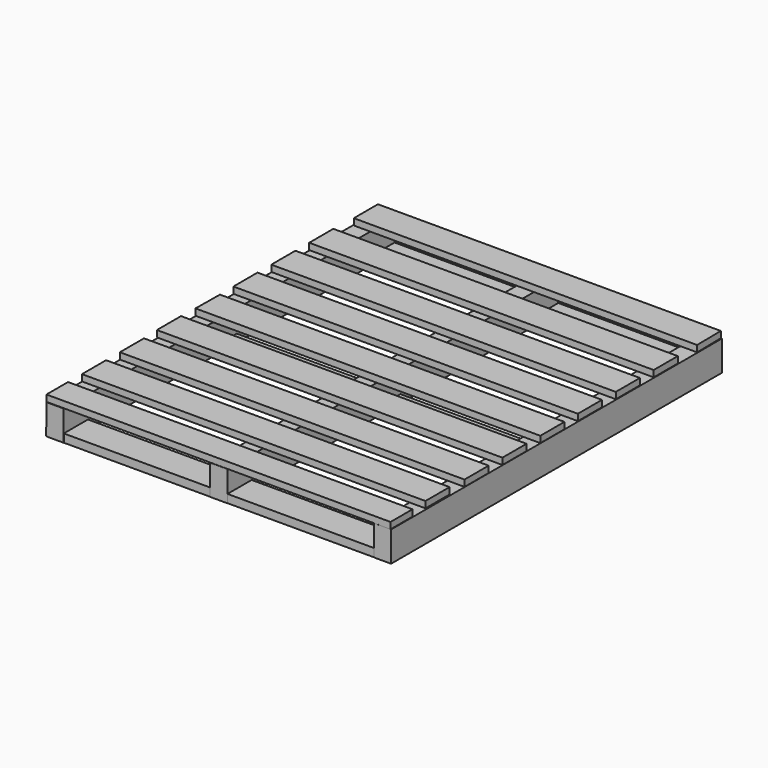
from build123d import *

# Parameters (mm, degrees)
F0_W     = 50.8
F0_H     = 1219.2
F1_DEPTH = 88.9
F2_W     = 1015.545875
F2_H     = 88.9
F2_W_2   = 1018.648714
F2_W_3   = 1016.00194
F2_W_4   = 1012.616396
F3_DEPTH = 19.05
F4_W     = 1015.545935
F4_H     = 88.9
F4_W_2   = 1017.929852
F5_DEPTH = 24.13


with BuildPart() as f1:
    # F0 (on Top) → F1 (new body)
    with BuildSketch(Plane.XY):
        with Locations((-384.217659, 363.047006)):
            Rectangle(F0_W, F0_H)
        with Locations((98.382341, 363.047006)):
            Rectangle(F0_W, F0_H)
        with Locations((580.982341, 363.047006)):
            Rectangle(F0_W, F0_H)
    extrude(amount=F1_DEPTH)


with BuildPart() as f3:
    # F2 (on face) → F3 (new body)
    with BuildSketch(Plane.XY.offset(88.9)):
        with Locations((96.78875, 767.893939)):
            Rectangle(F2_W, F2_H)
        with Locations((96.78875, 628.193939)):
            Rectangle(F2_W, F2_H)
        with Locations((96.78875, 488.493939)):
            Rectangle(F2_W, F2_H)
        Polygon((605.664253, 393.243939), (-409.914374, 393.243939), (-410.984188, 304.343939), (605.664253, 304.343939), align=None)
        with Locations((96.339896, 209.093939)):
            Rectangle(F2_W_2, F2_H)
        with Locations((97.663283, 69.393939)):
            Rectangle(F2_W_3, F2_H)
        with Locations((95.970511, -70.306061)):
            Rectangle(F2_W_4, F2_H)
        Polygon((-410.687506, -165.556061), (-410.687506, -245.086014), (604.76917, -246.552994), (604.76917, -165.556061), align=None)
        Polygon((604.528725, 883.23614), (604.76917, 883.23614), (603.41996, 972.13614), (-407.35814, 972.13614), (-407.35814, 883.23614), align=None)
    extrude(amount=F3_DEPTH)


with BuildPart() as f5:
    # F4 (on Top) → F5 (new body)
    with BuildSketch(Plane.XY):
        with Locations((96.698954, -201.592132)):
            Rectangle(F4_W, F4_H)
        with Locations((95.506996, 346.707299)):
            Rectangle(F4_W_2, F4_H)
        with Locations((96.698954, 928.381458)):
            Rectangle(F4_W, F4_H)
    extrude(amount=F5_DEPTH)


solid = Compound([f1.part, f3.part, f5.part])
